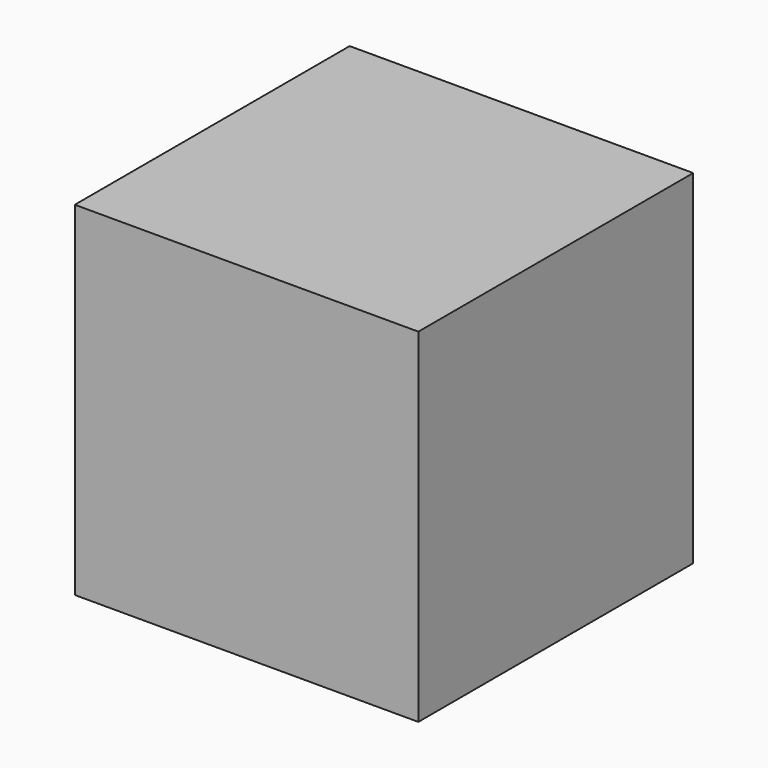
from build123d import *

# Parameters (mm, degrees)
F0_W          = 15.3162
F0_H          = 15.3162
F1_DEPTH      = 7.6581
F1_DEPTH_BACK = 7.6581
F3_D          = 2.2606
F3_DEPTH      = 14.605
F3_TIP        = 0.6791527577
F5_D          = 2.2606
F5_DEPTH      = 14.605
F5_TIP        = 0.6791527577
F7_D          = 2.2606
F7_DEPTH      = 14.605
F7_TIP        = 0.6791527577


with BuildPart() as f1:
    # F0 (on Top) → F1 (new body, two sides)
    with BuildSketch(Plane.XY) as f1_sk:
        Rectangle(F0_W, F0_H)
    extrude(amount=F1_DEPTH)
    extrude(f1_sk.sketch, amount=-F1_DEPTH_BACK)

    # F3
    with Locations(Plane(origin=(0, 7.6581, 0), x_dir=(-1, 0, 0), z_dir=(0, 1, 0))):
        with Locations((0, 0)):
            Hole(F3_D / 2, depth=F3_DEPTH)
            with Locations((0, 0, -(F3_DEPTH + F3_TIP / 2))):  # 118° drill point
                Cone(0, F3_D / 2, F3_TIP, mode=Mode.SUBTRACT)

    # F5
    with Locations(Plane(origin=(0, 0, -7.6581), x_dir=(1, 0, 0), z_dir=(0, 0, -1))):
        with Locations((0, 0)):
            Hole(F5_D / 2, depth=F5_DEPTH)
            with Locations((0, 0, -(F5_DEPTH + F5_TIP / 2))):  # 118° drill point
                Cone(0, F5_D / 2, F5_TIP, mode=Mode.SUBTRACT)

    # F7
    with Locations(Plane(origin=(-7.6581, 0, 0), x_dir=(0, -1, 0), z_dir=(-1, 0, 0))):
        with Locations((0, 0)):
            Hole(F7_D / 2, depth=F7_DEPTH)
            with Locations((0, 0, -(F7_DEPTH + F7_TIP / 2))):  # 118° drill point
                Cone(0, F7_D / 2, F7_TIP, mode=Mode.SUBTRACT)


solid = f1.part
